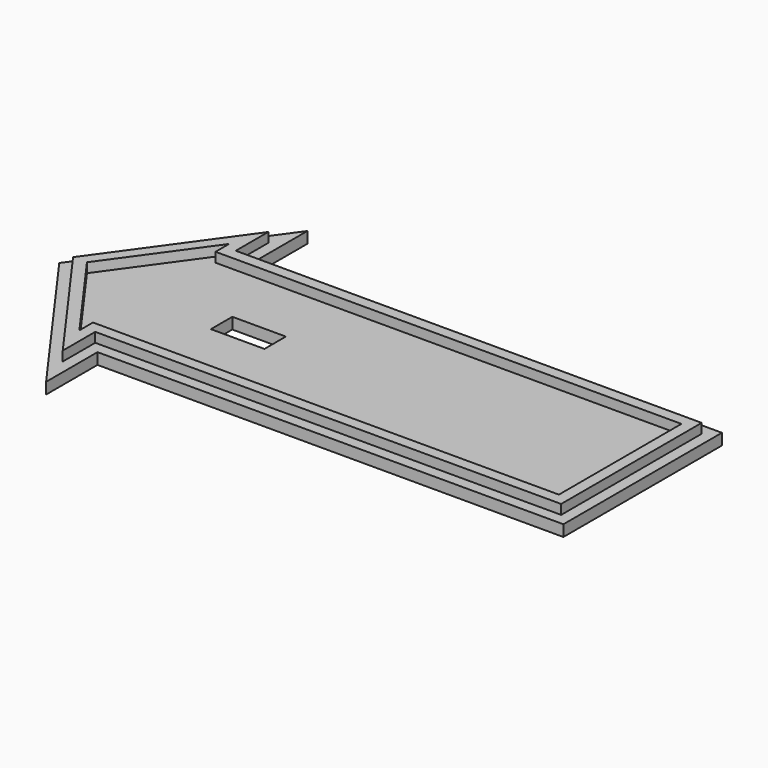
from build123d import *

# Parameters (mm, degrees)
F1_DEPTH = 2.1
F3_DEPTH = 1.8
F5_DEPTH = 8
F7_DEPTH = 1.016


with BuildPart() as f1:
    # F0 (on Top) → F1 (new body)
    with BuildSketch(Plane.XY):
        Polygon((61.593626, -18.5), (61.593626, 18.5), (-25.406374, 18.5), (-25.406374, 30.5), (-47.352125, 0), (-25.406374, -30.5), (-25.406374, -18.5), align=None)
    extrude(amount=F1_DEPTH)

    # F2 (on face) → F3 (join)
    with BuildSketch(Plane.XY.offset(2.1)):
        Polygon((59.493628, 16.400002), (-27.506373, 16.400002), (-27.506373, 23.985889), (-44.765007, 0), (-27.506373, -23.985889), (-27.506373, -16.400002), (59.493628, -16.400002), align=None)
        Polygon((-29.606375, 17.471772), (-29.606375, 14.3), (57.393626, 14.3), (57.393626, -14.3), (-29.606375, -14.3), (-29.606375, -17.471772), (-42.177888, 0), align=None, mode=Mode.SUBTRACT)
    extrude(amount=F3_DEPTH)

    # F4 (on face) → F5 (cut)
    with BuildSketch(Plane.XY.offset(2.1)):
        Polygon((-7.031372, -2.5), (-7.031372, 0), (-7.031372, 2.5), (-17.031372, 2.5), (-17.031372, -2.5), align=None)
    extrude(amount=-F5_DEPTH, mode=Mode.SUBTRACT)

    # F6 (on face) → F7 (cut)
    with BuildSketch(Plane(origin=(0, 0, 0), x_dir=(1, 0, 0), z_dir=(0, 0, -1))):
        with BuildLine():
            Line((17.868375, 5.807877), (17.389968, 6.649467))
            Line((17.389968, 6.649467), (15.720274, 6.649467))
            Line((15.720274, 6.649467), (11.672532, 6.649467))
            Line((11.672532, 6.649467), (10.458209, 7.054241))
            Line((10.458209, 7.054241), (9.49687, 7.459016))
            Line((9.49687, 7.459016), (8.484934, 7.914387))
            Line((8.484934, 7.914387), (7.776579, 8.369757))
            Line((7.776579, 8.369757), (6.461063, 8.369757))
            Line((6.461063, 8.369757), (6.461063, 7.054241))
            Line((6.461063, 7.054241), (6.865838, 5.688129))
            Line((6.865838, 5.688129), (7.827176, 4.524403))
            Line((7.827176, 4.524403), (8.484934, 3.411273))
            Line((8.484934, 3.411273), (8.484934, 1.437999))
            Line((8.484934, 1.437999), (9.49687, 0.881434))
            Line((9.49687, 0.881434), (9.49687, -1.749598))
            Line((9.49687, -1.749598), (10.002838, -2.710937))
            Line((10.002838, -2.710937), (10.458209, -3.621679))
            Line((10.458209, -3.621679), (10.458209, -6.050324))
            Line((10.458209, -6.050324), (11.014773, -6.505695))
            Line((11.014773, -6.505695), (11.672532, -6.505695))
            Line((11.672532, -6.505695), (12.077306, -6.100921))
            Line((12.077306, -6.100921), (12.532677, -6.100921))
            Line((12.532677, -6.100921), (12.90433, -6.582127))
            Line((12.90433, -6.582127), (13.527384, -6.100921))
            Line((13.527384, -6.100921), (14.296271, -7.096457))
            Line((14.296271, -7.096457), (15.720274, -7.096457))
            Line((15.720274, -7.096457), (16.735842, -7.573813))
            Line((16.735842, -7.573813), (17.14153, -8.114732))
            Line((17.14153, -8.114732), (17.637373, -8.790881))
            Line((17.637373, -8.790881), (17.637373, -10.098103))
            Line((17.637373, -10.098103), (18.358599, -10.729175))
            Line((18.358599, -10.729175), (18.944595, -10.729175))
            Line((18.944595, -10.729175), (19.39536, -11.134865))
            Line((19.39536, -11.134865), (21.333655, -11.134865))
            Line((21.333655, -11.134865), (22.505646, -10.684098))
            Line((22.505646, -10.684098), (22.862506, -10.359681))
            Line((22.862506, -10.359681), (26.547044, -10.359681))
            Line((26.547044, -10.359681), (27.159763, -9.794501))
            Line((27.159763, -9.794501), (29.251238, 6.794227))
            Line((29.251238, 6.794227), (31.42953, -10.359681))
            Line((31.42953, -10.359681), (34.922162, -10.359681))
            Line((34.922162, -10.359681), (34.922162, -9.405373))
            ThreePointArc((34.922162, -9.405373), (38.566072, -10.431832), (42.282903, -9.712898))
            ThreePointArc((42.282903, -9.712898), (43.887119, -8.50738), (45.256817, -7.040849))
            ThreePointArc((45.256817, -7.040849), (47.068037, -9.266569), (49.795189, -10.159309))
            ThreePointArc((49.795189, -10.159309), (52.782739, -8.771872), (54.433858, -5.921566))
            ThreePointArc((54.433858, -5.921566), (55.612943, 0.923855), (54.802926, 7.822689))
            ThreePointArc((54.802926, 7.822689), (53.159635, 11.066769), (49.981279, 12.833834))
            ThreePointArc((49.981279, 12.833834), (48.205281, 12.681465), (46.748952, 11.653607))
            ThreePointArc((46.748952, 11.653607), (42.496265, 12.988448), (38.243578, 11.653607))
            Line((38.243578, 11.653607), (38.243578, 12.988448))
            Line((38.243578, 12.988448), (34.899586, 12.988448))
            Line((34.899586, 12.988448), (33.07669, -4.188973))
            Line((33.07669, -4.188973), (31.098974, 12.775832))
            Line((31.098974, 12.775832), (27.543157, 12.775832))
            Line((27.543157, 12.775832), (25.559743, -4.294449))
            Line((25.559743, -4.294449), (23.376931, 12.895053))
            Line((23.376931, 12.895053), (17.104378, 12.895053))
            Line((17.104378, 12.895053), (18.728114, 11.108903))
            Line((18.728114, 11.108903), (18.844541, 10.192047))
            Line((18.844541, 10.192047), (19.452574, 10.054762))
            Line((19.452574, 10.054762), (19.452574, 9.066838))
            Line((19.452574, 9.066838), (19.316775, 8.465384))
            Line((19.316775, 8.465384), (19.452574, 8.434722))
            Line((19.452574, 8.434722), (19.570415, 7.506735))
            Line((19.570415, 7.506735), (20.018297, 7.40561))
            Line((20.018297, 7.40561), (20.151291, 6.358286))
            Line((20.151291, 6.358286), (20.264299, 6.33277))
            Line((20.264299, 6.33277), (19.990926, 5.122006))
            Line((19.990926, 5.122006), (20.075682, 4.454563))
            Line((20.075682, 4.454563), (19.6355, 3.658812))
            Line((19.6355, 3.658812), (19.6355, 2.990214))
            Line((19.6355, 2.990214), (20.065341, 1.93956))
            Line((20.065341, 1.93956), (20.065341, 1.223204))
            Line((20.065341, 1.223204), (19.73102, 0.697878))
            Line((19.73102, 0.697878), (19.062379, 0.697878))
            Line((19.062379, 0.697878), (18.680296, 0.077037))
            Line((18.680296, 0.077037), (17.725095, -0.687076))
            Line((17.725095, -0.687076), (16.722131, -0.687076))
            Line((16.722131, -0.687076), (16.398085, -0.327953))
            Line((16.398085, -0.327953), (16.00573, 0.124794))
            Line((16.00573, 0.124794), (16.722131, 0.745635))
            Line((16.722131, 0.745635), (17.389968, 0.745635))
            Line((17.389968, 0.745635), (18.154935, 1.748532))
            Line((18.154935, 1.748532), (19.014617, 1.748532))
            Line((19.014617, 1.748532), (19.014617, 2.464886))
            Line((19.014617, 2.464886), (18.680296, 2.990214))
            Line((18.680296, 2.990214), (18.680296, 3.658812))
            Line((18.680296, 3.658812), (19.205659, 4.088624))
            Line((19.205659, 4.088624), (19.205659, 4.94825))
            Line((19.205659, 4.94825), (18.728056, 4.94825))
            Line((18.728056, 4.94825), (18.298216, 4.375167))
            Line((18.298216, 4.375167), (17.725095, 3.658812))
            Line((17.725095, 3.658812), (17.389968, 3.181241))
            Line((17.389968, 3.181241), (16.722131, 3.181241))
            Line((16.722131, 3.181241), (16.722131, 3.658812))
            Line((16.722131, 3.658812), (17.389968, 4.136382))
            Line((17.389968, 4.136382), (17.389968, 4.900494))
            Line((17.389968, 4.900494), (17.868375, 4.900494))
            Line((17.868375, 4.900494), (17.868375, 5.807877))
        make_face()
        with BuildLine():
            Line((36.25592, -5.079472), (37.317255, 3.487003))
            Line((37.317255, 3.487003), (38.226967, 1.819194))
            Line((38.226967, 1.819194), (40.577063, -0.379282))
            Line((40.577063, -0.379282), (41.562585, -1.199999))
            Line((41.562585, -1.199999), (42.093252, -2.27452))
            ThreePointArc((42.093252, -2.27452), (42.411611, -3.810418), (41.941633, -5.3069))
            ThreePointArc((41.941633, -5.3069), (40.261644, -6.627542), (38.151158, -6.292424))
            Line((38.151158, -6.292424), (36.25592, -5.079472))
        make_face(mode=Mode.SUBTRACT)
        with BuildLine():
            Line((43.431631, 9.066838), (44.995993, 8.465384))
            Line((44.995993, 8.465384), (44.810452, 7.643624))
            Line((44.810452, 7.643624), (43.853124, 2.68892))
            Line((43.853124, 2.68892), (41.205642, 5.095722))
            ThreePointArc((41.205642, 5.095722), (40.786126, 5.667855), (40.622921, 6.358286))
            ThreePointArc((40.622921, 6.358286), (40.666306, 7.396519), (41.205642, 8.284735))
            ThreePointArc((41.205642, 8.284735), (42.217155, 8.964619), (43.431631, 9.066838))
        make_face(mode=Mode.SUBTRACT)
        with BuildLine():
            add(Edge.make_bspline(
                [(50.053255, 8.283923), (45.320541, 8.283923), (47.686898, -2.756179), (50.053255, -13.79628), (52.419612, -2.756179), (54.78597, 8.283923), (50.053255, 8.283923)],
                knots=[0, 0, 0, 2.094395, 2.094395, 4.18879, 4.18879, 6.283185, 6.283185, 6.283185], degree=2, weights=[1, 0.5, 1, 0.5, 1, 0.5, 1]))
        make_face(mode=Mode.SUBTRACT)
    extrude(amount=-F7_DEPTH, mode=Mode.SUBTRACT)


solid = f1.part
